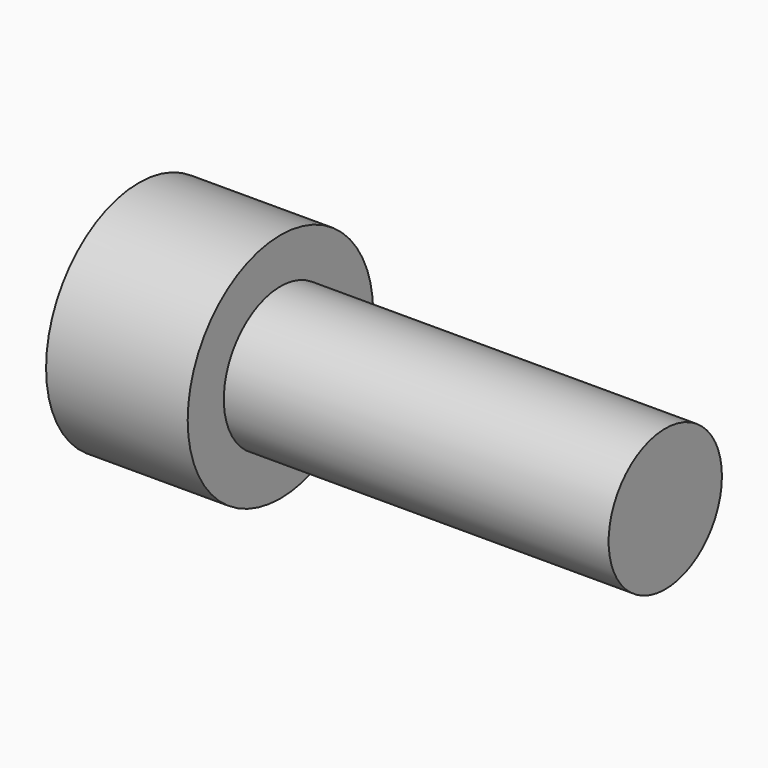
from build123d import *

# Parameters (mm, degrees)
F3_DEPTH = 2.54


with BuildPart() as f1:
    # F0 (on Top) → F1 (revolve)
    with BuildSketch(Plane.XY):
        Polygon((0, 2.8702), (0, 0), (13.0302, 0), (13.0302, 1.7526), (3.5052, 1.7526), (3.5052, 2.8702), align=None)
    revolve(axis=Axis((4.848177, 0, 0), (-1, 0, 0)))

    # F2 (on face) → F3 (cut)
    with BuildSketch(Plane(origin=(0, 0, 0), x_dir=(0, -1, 0), z_dir=(-1, 0, 0))):
        Polygon((1.544177, 0.433792), (0.396414, 1.554193), (-1.147764, 1.120401), (-1.544177, -0.433792), (-0.396414, -1.554193), (1.147764, -1.120401), align=None)
    extrude(amount=-F3_DEPTH, mode=Mode.SUBTRACT)


solid = f1.part
